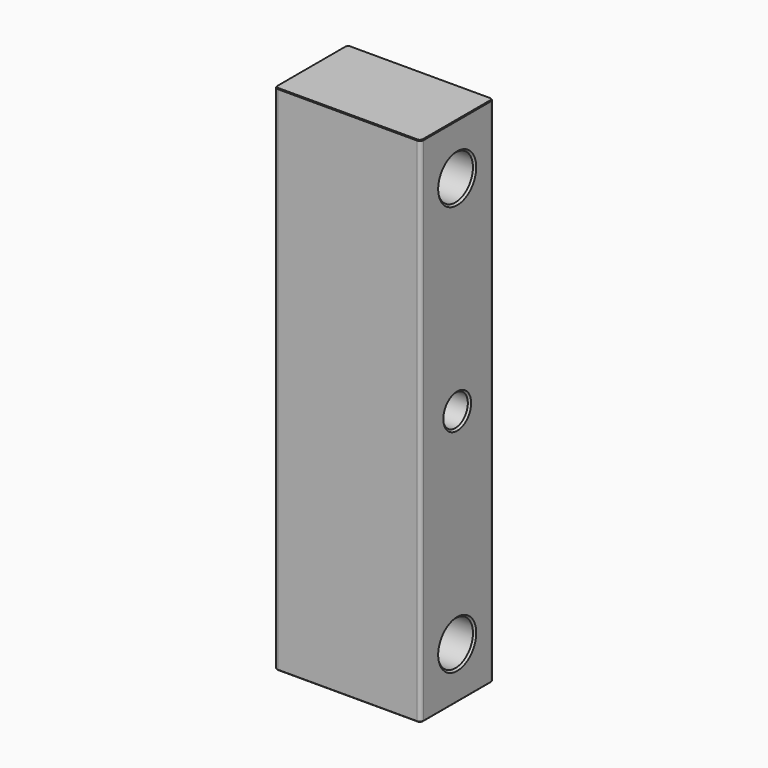
from build123d import *

# Parameters (mm, degrees)
F1_DEPTH = 3556
F2_R     = 107.95
F2_R_2   = 152.4
F3_DEPTH = 1016.001
F4_SIZE  = 12.7
F5_SIZE  = 5.08
F6_SIZE  = 5.08


with BuildPart() as f1:
    # F0 (on Top) → F1 (new body)
    with BuildSketch(Plane.XY):
        with BuildLine():
            ThreePointArc((0, 25.4), (7.439488, 7.439488), (25.4, 0))
            Line((25.4, 0), (990.6, 0))
            ThreePointArc((990.6, 0), (1008.560512, 7.439488), (1016, 25.4))
            Line((1016, 25.4), (1016, 609.6))
            ThreePointArc((1016, 609.6), (1008.560512, 627.560512), (990.6, 635))
            Line((990.6, 635), (25.4, 635))
            ThreePointArc((25.4, 635), (7.439488, 627.560512), (0, 609.6))
            Line((0, 609.6), (0, 25.4))
        make_face()
    extrude(amount=F1_DEPTH)

    # F2 (on face) → F3 (cut, through all)
    with BuildSketch(Plane.YZ.offset(1016)):
        with Locations((317.5, 1778)):
            Circle(F2_R)
        with Locations((317.5, 3200.4)):
            Circle(F2_R_2)
        with Locations((317.5, 355.6)):
            Circle(F2_R_2)
    extrude(amount=-F3_DEPTH, mode=Mode.SUBTRACT)

    # F4
    f4_edges = [f1.edges().sort_by_distance(p)[0] for p in [
        (1016, 165.1, 3200.4),
        (1016, 209.55, 1778),
        (1016, 165.1, 355.6),
        (0, 165.1, 3200.4),
        (0, 209.55, 1778),
        (0, 165.1, 355.6),
    ]]
    chamfer(f4_edges, length=F4_SIZE)

    # F5
    f5_edges = [f1.edges().sort_by_distance(p)[0] for p in [
        (508, 0, 3556),
        (0, 317.5, 3556),
        (508, 635, 3556),
        (1016, 317.5, 3556),
    ]]
    chamfer(f5_edges, length=F5_SIZE)

    # F6
    f6_edges = [f1.edges().sort_by_distance(p)[0] for p in [
        (508, 635, 0),
        (1016, 317.5, 0),
        (508, 0, 0),
        (0, 317.5, 0),
    ]]
    chamfer(f6_edges, length=F6_SIZE)


solid = f1.part
